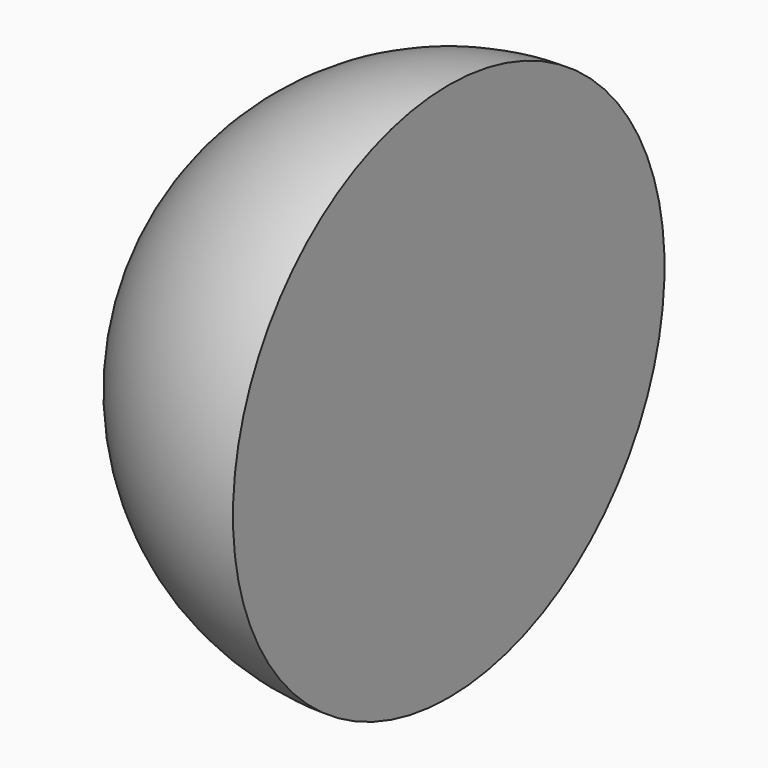
from build123d import *

# Parameters (mm, degrees)
F1_ANGLE = 180


with BuildPart() as f1:
    # F0 (on Right) → F1 (revolve)
    with BuildSketch(Plane.YZ):
        with BuildLine():
            Line((0, -25), (0, 25))
            ThreePointArc((0, 25), (-25, 0), (0, -25))
        make_face()
    revolve(axis=Axis((0, 0, 0), (0, 0, -1)), revolution_arc=F1_ANGLE)


solid = f1.part
